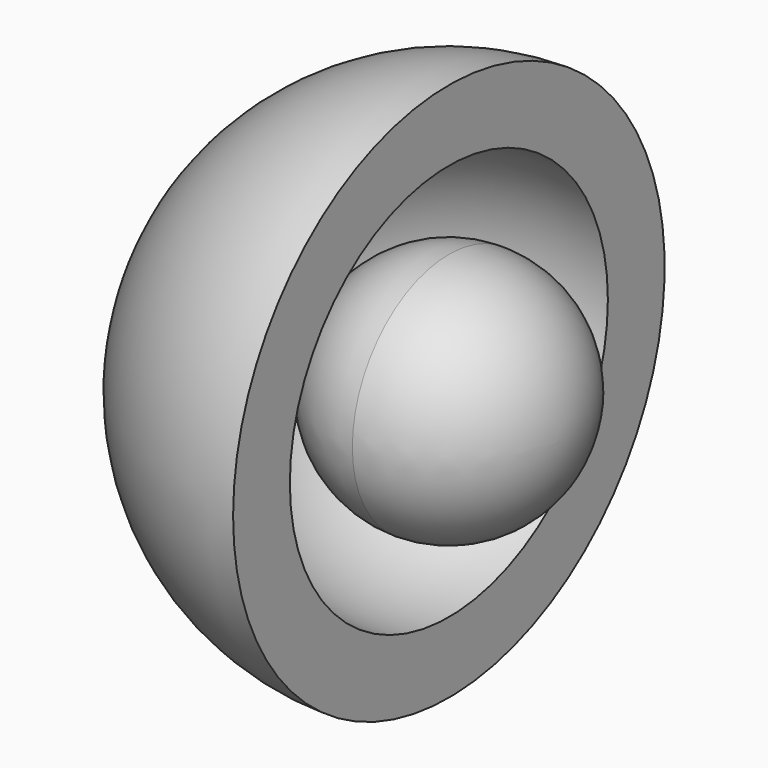
from build123d import *


with BuildPart() as f1:
    # F0 (on Top) → F1 (revolve)
    with BuildSketch(Plane.XY):
        with BuildLine():
            ThreePointArc((-35.1254427182, 0), (-24.8374387382, -24.8374387382), (0, -35.1254427182))
            Line((0, -35.1254427182), (0, 0))
            Line((0, 0), (-35.1254427182, 0))
        make_face()
        with BuildLine():
            ThreePointArc((0, -35.1254427182), (24.8374387382, -24.8374387382), (35.1254427182, 0))
            Line((35.1254427182, 0), (0, 0))
            Line((0, 0), (0, -35.1254427182))
        make_face()
    revolve(axis=Axis((0, 0, 0), (1, 0, 0)))


with BuildPart() as f2:
    # F0 (on Top) → F2 (revolve)
    with BuildSketch(Plane.XY):
        with BuildLine():
            Line((0, -78.5220786929), (0, -57.8674628009))
            ThreePointArc((0, -57.8674628009), (-40.9184753566, -40.9184753566), (-57.8674628009, 0))
            Line((-57.8674628009, 0), (-78.5220786929, 0))
            ThreePointArc((-78.5220786929, 0), (-55.5234943166, -55.5234943166), (0, -78.5220786929))
        make_face()
    revolve(axis=Axis((0, 0, 0), (1, 0, 0)))


solid = Compound([f1.part, f2.part])
